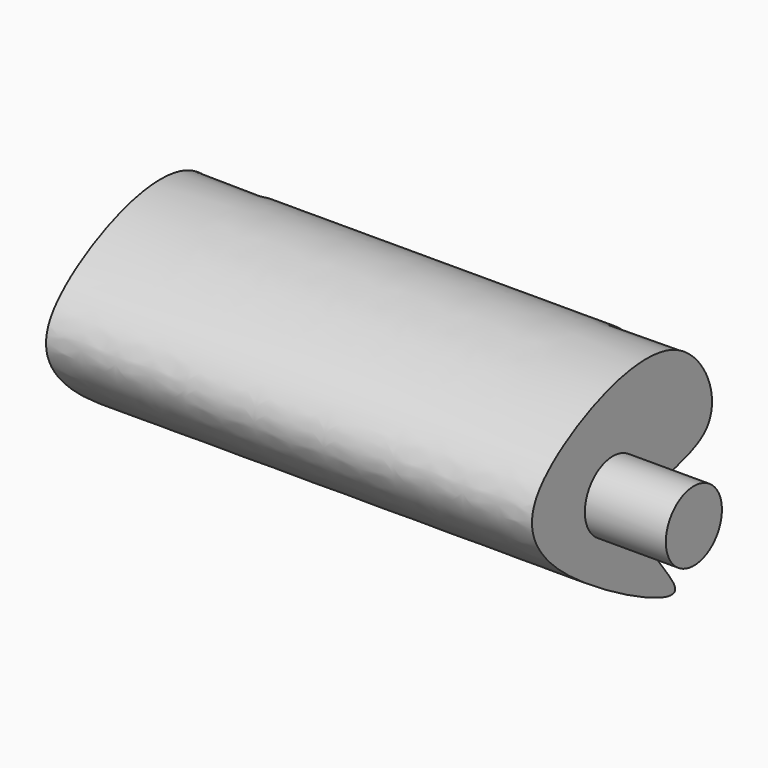
from build123d import *

# Parameters (mm, degrees)
F1_DEPTH = 150
F2_R     = 10.8210470498
F3_DEPTH = 25


with BuildPart() as f1:
    # F0 (on Right) → F1 (new body)
    with BuildSketch(Plane.YZ):
        with BuildLine():
            add(Edge.make_bspline(
                [(-23.6794371158, 8.4375003353), (-29.9118561299, 3.2847070922), (-35.0108979459, -8.3635858895), (-13.4522808761, -29.9492254803), (41.343774668, -57.6215565893), (-6.9644323785, -11.0597008609), (48.4960379318, -13.7989353021), (26.8700562285, 34.1372636102), (-13.0252752572, 17.2460693854), (-23.6794371158, 8.4375003353)],
                knots=[0, 0, 0, 0, 0.1054423127, 0.2511053577, 0.4048850725, 0.5438216555, 0.6819484945, 0.8197490472, 1, 1, 1, 1], degree=3))
        make_face()
    extrude(amount=F1_DEPTH)

    # F2 (on face) → F3 (join)
    with BuildSketch(Plane.YZ.offset(150)):
        with Locations((0, -9.6153849736)):
            Circle(F2_R)
    extrude(amount=F3_DEPTH)


solid = f1.part
